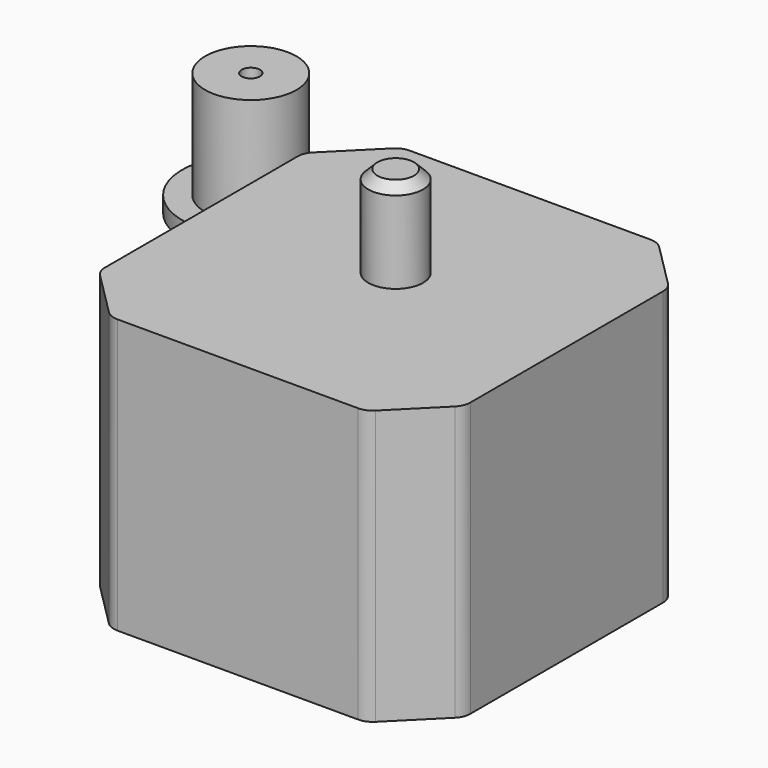
from build123d import *

# Parameters (mm, degrees)
F0_W     = 50.8
F0_H     = 50.8
F0_R     = 3.81
F1_DEPTH = 38.1
F2_DEPTH = 50.8
F3_SIZE  = 7.62
F4_R     = 2.54
F5_SIZE  = 1.27
F6_R     = 9.525
F6_R_2   = 6.35
F7_DEPTH = 2.2225
F6_R_3   = 1.27
F8_DEPTH = 17.145
F9_DEPTH = 2.2225


with BuildPart() as f1:
    # F0 (on Top) → F1 (new body)
    with BuildSketch(Plane.XY):
        with Locations((0, -2.0310165685)):
            Rectangle(F0_W, F0_H)
        Circle(F0_R, mode=Mode.SUBTRACT)
    extrude(amount=F1_DEPTH)

    # F0 (on Top) → F2 (join)
    with BuildSketch(Plane.XY):
        Circle(F0_R)
    extrude(amount=F2_DEPTH)

    # F3
    f3_edges = [f1.edges().sort_by_distance(p)[0] for p in [
        (-25.4, -27.431017, 19.05),
        (25.4, -27.431017, 19.05),
        (25.4, 23.368983, 19.05),
        (-25.4, 23.368983, 19.05),
    ]]
    chamfer(f3_edges, length=F3_SIZE)

    # F4
    f4_edges = [f1.edges().sort_by_distance(p)[0] for p in [
        (-25.4, -19.811017, 19.05),
        (-17.78, -27.431017, 19.05),
        (17.78, -27.431017, 19.05),
        (25.4, -19.811017, 19.05),
        (17.78, 23.368983, 19.05),
        (25.4, 15.748983, 19.05),
        (-17.78, 23.368983, 19.05),
        (-25.4, 15.748983, 19.05),
    ]]
    fillet(f4_edges, radius=F4_R)

    # F5
    f5_edges = [f1.edges().sort_by_distance(p)[0] for p in [
        (-3.81, 0, 50.8),
    ]]
    chamfer(f5_edges, length=F5_SIZE)


with BuildPart() as f7:
    # F6 (on Top) → F7 (new body)
    with BuildSketch(Plane.XY):
        with Locations((-66.7494982481, 58.256816119)):
            Circle(F6_R)
        with Locations((-66.7494982481, 58.256816119)):
            Circle(F6_R_2, mode=Mode.SUBTRACT)
    extrude(amount=F7_DEPTH)

    # F6 (on Top) → F8 (join)
    with BuildSketch(Plane.XY):
        with Locations((-66.7494982481, 58.256816119)):
            Circle(F6_R_2)
        with Locations((-66.7494982481, 58.256816119)):
            Circle(F6_R_3, mode=Mode.SUBTRACT)
    extrude(amount=F8_DEPTH)


with BuildPart() as f9:
    # F6 (on Top) → F9 (new body)
    with BuildSketch(Plane.XY):
        with Locations((-28.5380091518, 61.8159025908)):
            Circle(F6_R)
        with Locations((-28.5380091518, 61.8159025908)):
            Circle(F6_R_3, mode=Mode.SUBTRACT)
    extrude(amount=F9_DEPTH)


solid = Compound([f1.part, f7.part, f9.part])
